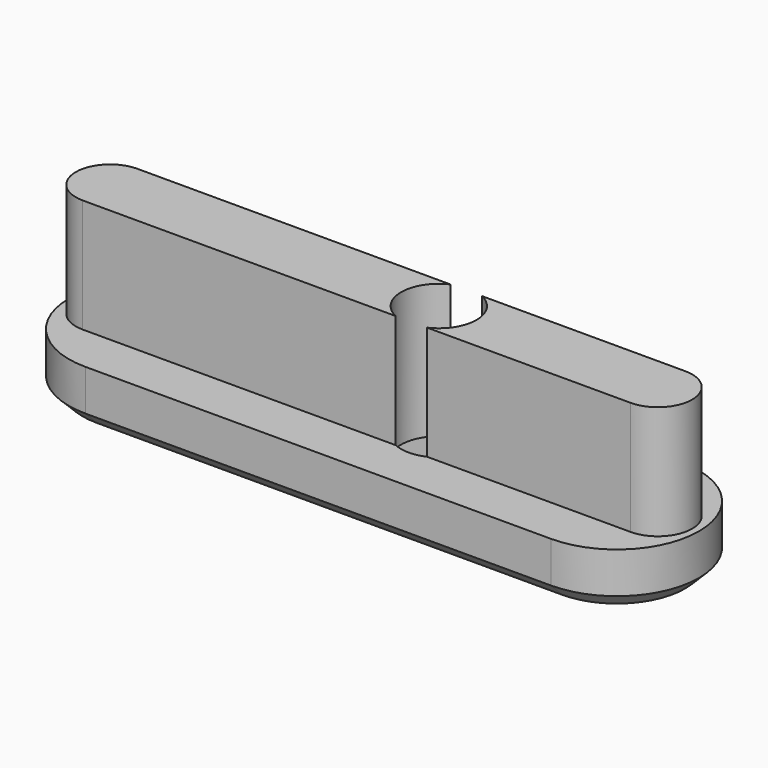
from build123d import *

# Parameters (mm, degrees)
PAD_DEPTH       = 4
PAD001_DEPTH    = 8.3
SKETCH002_R     = 2.75
POCKET_DEPTH    = 12.301
POCKET001_DEPTH = 2.5
CHAMFER_SIZE    = 1


with BuildPart() as part:
    # Sketch → Pad (new body)
    with BuildSketch(Plane.XY):
        with BuildLine():
            ThreePointArc((-17, 6), (-23, 0), (-17, -6))
            Line((-17, -6), (17, -6))
            ThreePointArc((17, -6), (23, 0), (17, 6))
            Line((-17, 6), (17, 6))
        make_face()
    extrude(amount=PAD_DEPTH)

    # Sketch001 → Pad001 (new body)
    with BuildSketch(Plane.XY.offset(4)):
        with BuildLine():
            ThreePointArc((-20, 2.5), (-22.5, 0), (-20, -2.5))
            Line((-20, -2.5), (20, -2.5))
            ThreePointArc((20, -2.5), (22.5, 0), (20, 2.5))
            Line((-20, 2.5), (20, 2.5))
        make_face()
    extrude(amount=PAD001_DEPTH)

    # Sketch002 → Pocket (cut, through all)
    with BuildSketch(Plane.XY.offset(12.3)):
        with Locations((4, 0)):
            Circle(SKETCH002_R)
    extrude(amount=-POCKET_DEPTH, mode=Mode.SUBTRACT)

    # Sketch003 → Pocket001 (cut)
    with BuildSketch(Plane(origin=(0, 0, 0), x_dir=(1, 0, 0), z_dir=(0, 0, -1))):
        Polygon((8.734272, 0), (6.367136, 4.1), (1.632864, 4.1), (-0.734272, 0), (1.632864, -4.1), (6.367136, -4.1), align=None)
    extrude(amount=-POCKET001_DEPTH, mode=Mode.SUBTRACT)

    # Chamfer
    chamfer_edges = [part.edges().sort_by_distance(p)[0] for p in [
        (0, -6, 0),
    ]]
    chamfer(chamfer_edges, length=CHAMFER_SIZE)


solid = part.part
